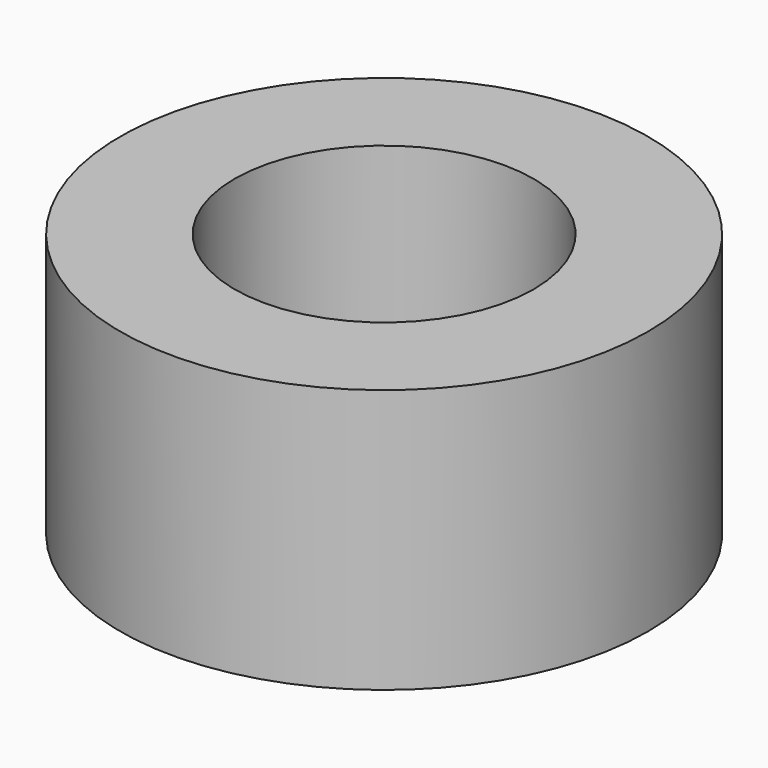
from build123d import *

# Parameters (mm, degrees)
CYLINDER009_R     = 1.7
CYLINDER009_DEPTH = 3
CYLINDER008_R     = 3
CYLINDER008_DEPTH = 3


with BuildPart() as cylinder009:
    # Cylinder009 → Cylinder009 (new body)
    with BuildSketch(Plane(origin=(-32, 0, 0), x_dir=(1, 0, 0), z_dir=(0, 0, 1))):
        Circle(CYLINDER009_R)
    extrude(amount=CYLINDER009_DEPTH)


with BuildPart() as obj1:
    # Cylinder008 → Cylinder008 (new body)
    with BuildSketch(Plane(origin=(-32, 0, 0), x_dir=(1, 0, 0), z_dir=(0, 0, 1))):
        Circle(CYLINDER008_R)
    extrude(amount=CYLINDER008_DEPTH)

    # Cut004: cut Cylinder009
    add(cylinder009.part, mode=Mode.SUBTRACT)


solid = obj1.part
